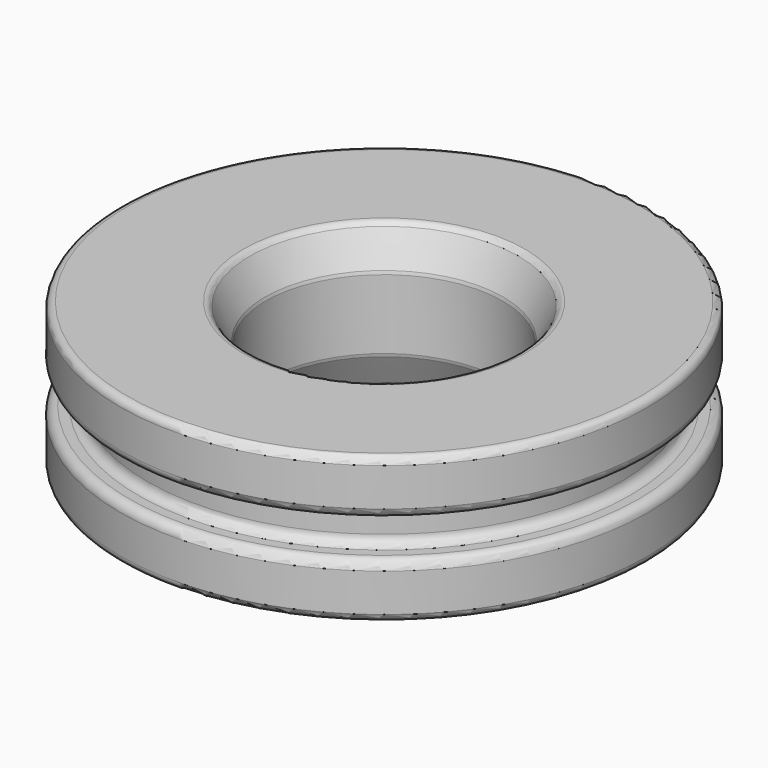
from build123d import *

# Parameters (mm, degrees)
F0_R       = 7.25
F0_R_2     = 6.5
F0_R_3     = 3.25
F1_DEPTH   = 4
F2_R       = 0.2
F3_SIZE2   = 1
F3_SIZE    = 0.5
F3_2_SIZE2 = 1
F3_2_SIZE  = 0.5
F4_R       = 0.2
F5_START   = 1.5
F5_DEPTH   = 1
F6_R       = 0.25


with BuildPart() as f1:
    # F0 (on Top) → F1 (new body)
    with BuildSketch(Plane.XY):
        Circle(F0_R)
        Circle(F0_R_2, mode=Mode.SUBTRACT)
        Circle(F0_R_2)
        Circle(F0_R_3, mode=Mode.SUBTRACT)
    extrude(amount=F1_DEPTH)

    # F2
    f2_edges = [f1.edges().sort_by_distance(p)[0] for p in [
        (-7.25, 0, 4),
        (-7.25, 0, 0),
    ]]
    fillet(f2_edges, radius=F2_R)

    # F3
    f3_edges = [f1.edges().sort_by_distance(p)[0] for p in [
        (-3.25, 0, 4),
    ]]
    f3_side = f1.faces().sort_by_distance((-6.850596, 0, 4))[0]
    chamfer(f3_edges, length=F3_SIZE, length2=F3_SIZE2, reference=f3_side)

    # F3#2
    f3_2_edges = [f1.edges().sort_by_distance(p)[0] for p in [
        (-3.25, 0, 0),
    ]]
    f3_2_side = f1.faces().sort_by_distance((-6.850596, 0, 0))[0]
    chamfer(f3_2_edges, length=F3_2_SIZE, length2=F3_2_SIZE2, reference=f3_2_side)

    # F4
    f4_edges = [f1.edges().sort_by_distance(p)[0] for p in [
        (-3.75, 0, 4),
        (-3.25, 0, 3),
        (-3.25, 0, 1),
        (3.5, 0, 0.5),
        (-3.75, 0, 0),
    ]]
    fillet(f4_edges, radius=F4_R)

    # F0 (on Top) → F5 (cut)
    with BuildSketch(Plane.XY.offset(F5_START)):
        Circle(F0_R)
        Circle(F0_R_2, mode=Mode.SUBTRACT)
    extrude(amount=F5_DEPTH, mode=Mode.SUBTRACT)

    # F6
    f6_edges = [f1.edges().sort_by_distance(p)[0] for p in [
        (-7.25, 0, 2.5),
        (-7.25, 0, 1.5),
        (-6.5, 0, 1.5),
        (-6.5, 0, 2.5),
    ]]
    fillet(f6_edges, radius=F6_R)


solid = f1.part
